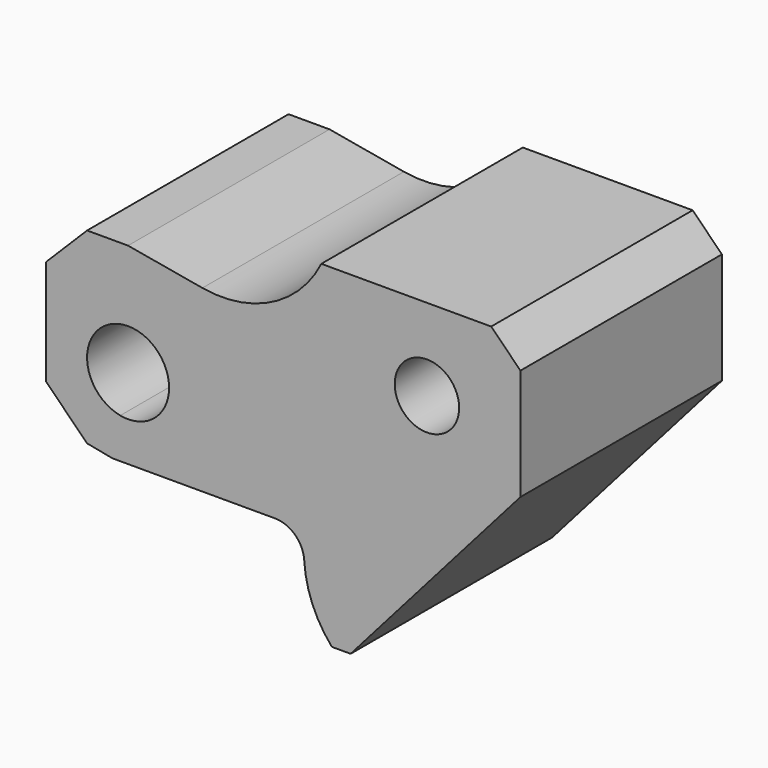
from build123d import *

# Parameters (mm, degrees)
F1_DEPTH = 43
F2_R     = 5.5
F3_DEPTH = 43.001


with BuildPart() as f1:
    # F0 (on Front) → F1 (new body)
    with BuildSketch(Plane.XZ):
        with BuildLine():
            Line((-29, -33), (0, 0))
            Line((0, 0), (0, 19))
            Line((0, 19), (-5, 24))
            Line((-5, 24), (-34, 24))
            ThreePointArc((-34, 24), (-42.45188, 15.507565), (-54.305461, 13.76161))
            Line((-54.305461, 13.76161), (-67, 16))
            Line((-67, 16), (-74, 16))
            Line((-74, 16), (-81, 9))
            Line((-81, 9), (-81, 0))
            Line((-81, 0), (-81, -9))
            Line((-81, -9), (-74, -16))
            Line((-74, -16), (-69.666546, -16.840774))
            Line((-69.666546, -16.840774), (-41.912817, -16.840774))
            ThreePointArc((-41.912817, -16.840774), (-38.482715, -18.202863), (-36.921454, -21.547014))
            ThreePointArc((-36.921454, -21.547014), (-35.521554, -27.668866), (-32.202549, -33))
            Line((-32.202549, -33), (-29, -33))
        make_face()
        with BuildLine():
            ThreePointArc((-60, -3.097065), (-62.546513, -8.497663), (-68.333273, -9.96892))
            ThreePointArc((-68.333273, -9.96892), (-71.453487, 2.303533), (-60, -3.097065))
        make_face(mode=Mode.SUBTRACT)
    extrude(amount=F1_DEPTH)

    # F2 (on face) → F3 (cut, through all)
    with BuildSketch(Plane.XZ.offset(43)):
        with Locations((-15.968021, 10)):
            Circle(F2_R)
    extrude(amount=-F3_DEPTH, mode=Mode.SUBTRACT)


solid = f1.part
